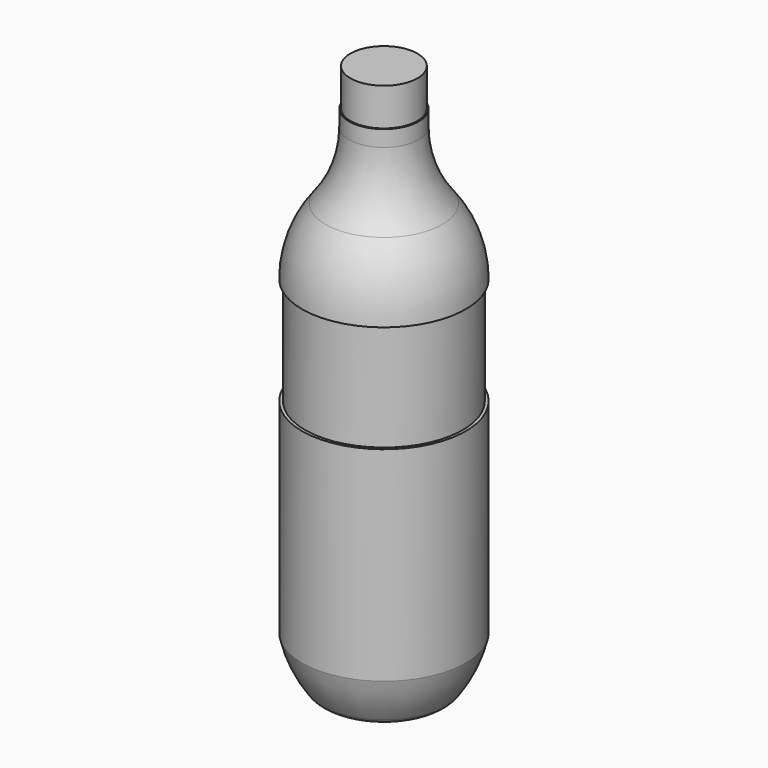
from build123d import *


with BuildPart() as f1:
    # F0 (on Front) → F1 (revolve)
    with BuildSketch(Plane.XZ):
        with BuildLine():
            Line((317.5, 0), (0, 0))
            Line((0, 0), (0, -355.6))
            Line((0, -355.6), (-12.7, -355.6))
            Line((-12.7, -355.6), (-12.7, -508))
            ThreePointArc((-12.7, -508), (-69.871034, -844.010437), (-234.950028, -1142.205788))
            ThreePointArc((-234.950028, -1142.205788), (-399.973552, -1440.242895), (-457.2, -1776.07621))
            Line((-457.2, -1776.07621), (-429.26, -1776.07621))
            Line((-429.26, -1776.07621), (-429.26, -2792.07621))
            Line((-429.26, -2792.07621), (-457.2, -2792.07621))
            Line((-457.2, -2792.07621), (-457.2, -4724.50821))
            ThreePointArc((-457.2, -4724.50821), (-384.416093, -4943.640274), (-269.075745, -5143.672678))
            ThreePointArc((-269.075745, -5143.672678), (-121.112759, -5205.049757), (0, -5100.207539))
            ThreePointArc((0, -5100.207539), (120.894095, -4880.366202), (317.5, -4724.50821))
            Line((317.5, -4724.50821), (317.5, 0))
        make_face()
    revolve(axis=Axis((317.5, 0, -2362.254105), (0, 0, -1)))


solid = f1.part
